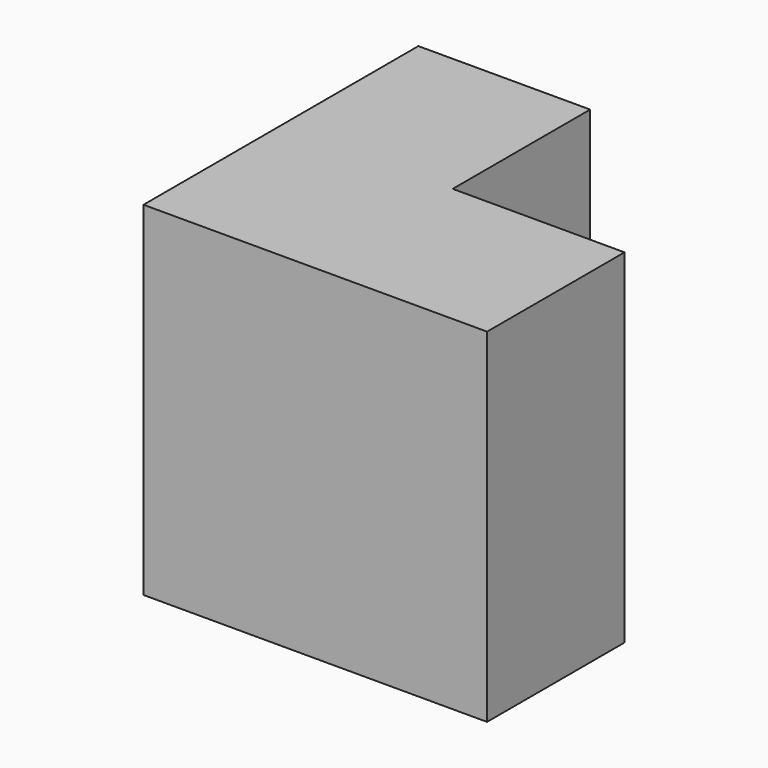
from build123d import *

# Parameters (mm, degrees)
F1_DEPTH = 76.2
F2_W     = 38.1
F2_H     = 38.1
F3_DEPTH = 76.2


with BuildPart() as f1:
    # F0 (on Front) → F1 (new body)
    with BuildSketch(Plane.XZ):
        Polygon((-76.2, 0), (0, 0), (0, 38.1), (0, 76.2), (-38.1, 76.2), (-76.2, 76.2), align=None)
    extrude(amount=F1_DEPTH)

    # F2 (on face) → F3 (cut)
    with BuildSketch(Plane.XY.offset(76.2)):
        with Locations((-19.05, -19.05)):
            Rectangle(F2_W, F2_H)
    extrude(amount=-F3_DEPTH, mode=Mode.SUBTRACT)


solid = f1.part
